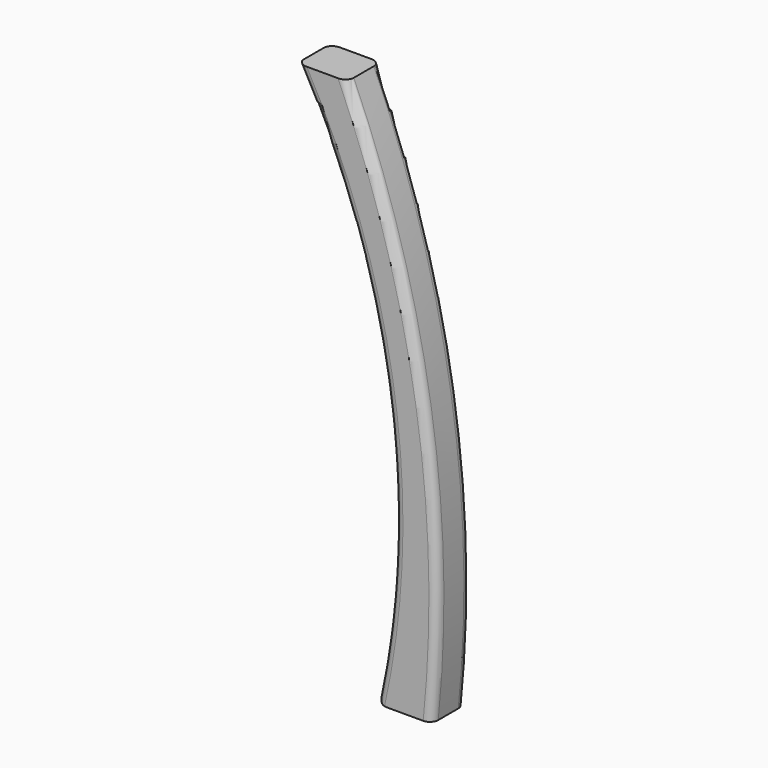
from build123d import *

# Parameters (mm, degrees)
F1_DEPTH = 25.4
F2_R     = 5.08


with BuildPart() as f1:
    # F0 (on Front) → F1 (new body)
    with BuildSketch(Plane.XZ):
        with BuildLine():
            Line((-46.963625, -95.087554), (-13.032385, -95.087554))
            ThreePointArc((-13.032385, -95.087554), (-17.386338, 72.400967), (-64.540181, 233.173716))
            Line((-64.540181, 233.173716), (-95.020181, 233.173716))
            ThreePointArc((-95.020181, 233.173716), (-40.436227, 73.516349), (-46.963625, -95.087554))
        make_face()
    extrude(amount=F1_DEPTH)

    # F2
    f2_edges = [f1.edges().sort_by_distance(p)[0] for p in [
        (-40.436227, 0, 73.516349),
        (-46.963625, -12.7, -95.087554),
        (-17.386338, -25.4, 72.400967),
        (-40.436227, -25.4, 73.516349),
        (-17.386338, 0, 72.400967),
    ]]
    fillet(f2_edges, radius=F2_R)


solid = f1.part
